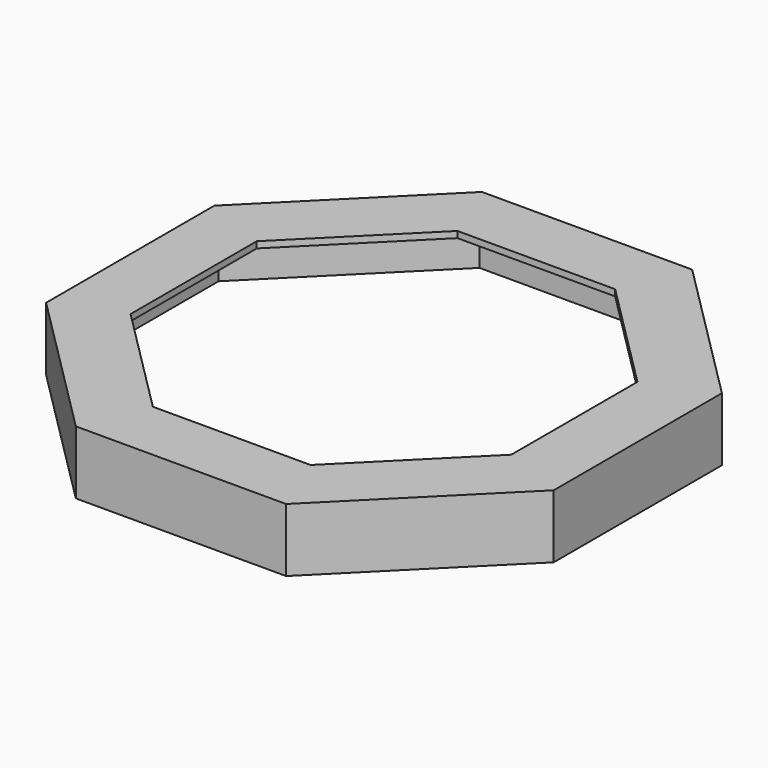
from build123d import *


with BuildPart() as f2:
    # F2: sweep along a path in F0
    with BuildLine(Plane.XY) as f2_path:
        Line((-200, -82.8427124746), (-200, 82.8427124746))
        Line((-200, 82.8427124746), (-82.8427124746, 200))
        Line((-82.8427124746, 200), (82.8427124746, 200))
        Line((82.8427124746, 200), (200, 82.8427124746))
        Line((200, 82.8427124746), (200, -82.8427124746))
        Line((200, -82.8427124746), (82.8427124746, -200))
        Line((82.8427124746, -200), (-82.8427124746, -200))
        Line((-82.8427124746, -200), (-200, -82.8427124746))
    # F1 (on Front) → F2 (sweep)
    with BuildSketch(Plane.XZ):
        Polygon((-150, 0), (-200, 0), (-200, -50), (-195, -50), (-195, -5), (-150, -5), align=None)
    sweep(path=f2_path.line, transition=Transition.RIGHT)


solid = f2.part
